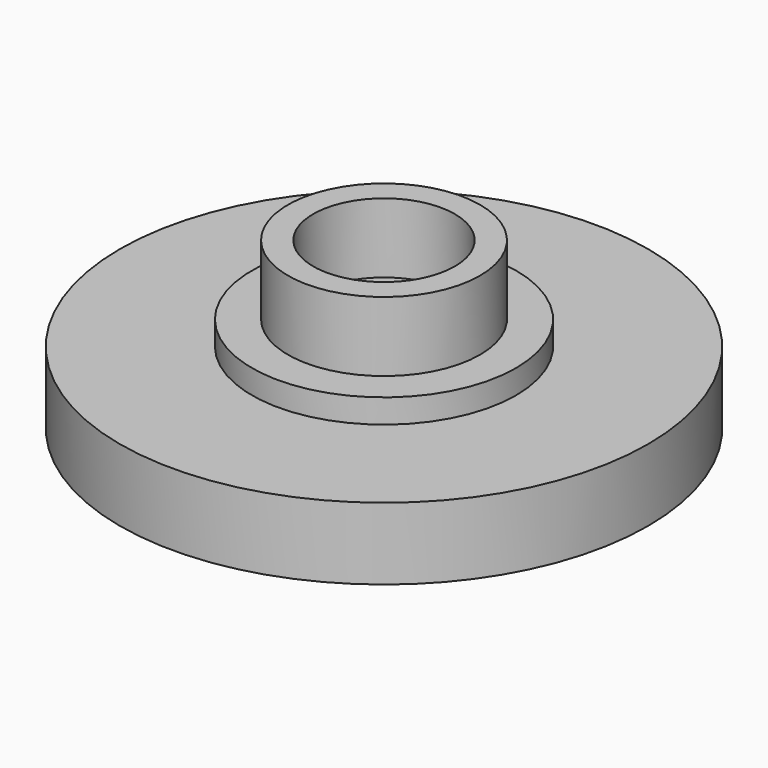
from build123d import *

# Parameters (mm, degrees)
F0_R      = 11
F1_DEPTH  = 3
F5_R      = 5.5
F6_DEPTH  = 1
F7_R      = 4
F8_DEPTH  = 2.9
F9_R      = 2.95
F10_DEPTH = 2.9
F11_R     = 0.3


with BuildPart() as f1:
    # F0 (on Top) → F1 (new body)
    with BuildSketch(Plane.XY):
        Circle(F0_R)
    extrude(amount=F1_DEPTH)

    # F3 (on Front) → F4 (revolve, cut)
    with BuildSketch(Plane.XZ):
        with BuildLine():
            Line((0, -42.4037037037), (0, 2.7))
            ThreePointArc((0, 2.7), (-22.5518518519, -19.8518518519), (0, -42.4037037037))
        make_face()
    revolve(axis=Axis((0, 0, -19.8518518519), (0, 0, -1)), mode=Mode.SUBTRACT)

    # F5 (on face) → F6 (join)
    with BuildSketch(Plane.XY.offset(3)):
        Circle(F5_R)
    extrude(amount=F6_DEPTH)

    # F7 (on face) → F8 (join)
    with BuildSketch(Plane.XY.offset(4)):
        Circle(F7_R)
    extrude(amount=F8_DEPTH)

    # F9 (on face) → F10 (cut)
    with BuildSketch(Plane.XY.offset(6.9)):
        Circle(F9_R)
    extrude(amount=-F10_DEPTH, mode=Mode.SUBTRACT)

    # F11
    f11_edges = [f1.edges().sort_by_distance(p)[0] for p in [
        (10.7, 0, 0),
    ]]
    fillet(f11_edges, radius=F11_R)


solid = f1.part
